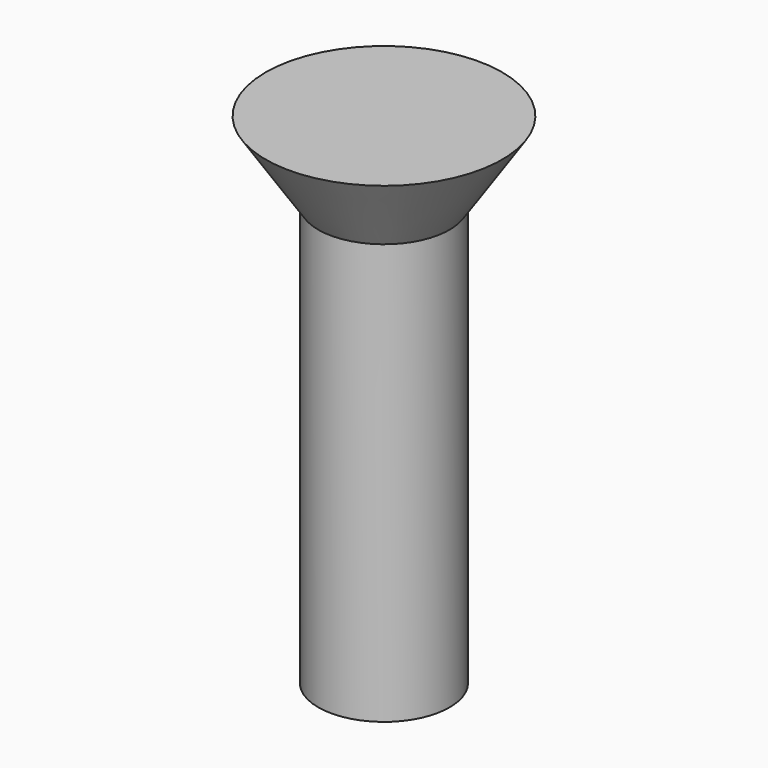
from build123d import *

# Parameters (mm, degrees)
CYLINDER011_R                   = 2.5
CYLINDER011_DEPTH               = 16
FUSION001018017_PLACEMENT_ANGLE = 180


with BuildPart() as cone003:
    # Cone003 → Cone003 (revolve)
    with BuildSketch(Plane(origin=(0, 0, -3), x_dir=(1, 0, 0), z_dir=(0, -1, 0))):
        Polygon((0, 0), (4.5, 0), (2.5, 3), (0, 3), align=None)
    revolve(axis=Axis((0, 0, -3), (0, 0, 1)))


with BuildPart() as obj1:
    # Cylinder011 → Cylinder011 (new body)
    with BuildSketch(Plane.XY):
        Circle(CYLINDER011_R)
    extrude(amount=CYLINDER011_DEPTH)

    # Fusion001018017: union Cone003
    add(cone003.part)


with BuildPart() as obj1_1:
    # Fusion001018017 placement: moved
    add(obj1.part.moved(Location((45, 15, 21))).rotate(Axis((45, 15, 21), (0, 1, 0)), FUSION001018017_PLACEMENT_ANGLE))


with BuildPart() as obj1_2:
    # Clone011 placement: moved
    add(obj1_1.part.moved(Location((25, 0, 0))))


solid = obj1_2.part
